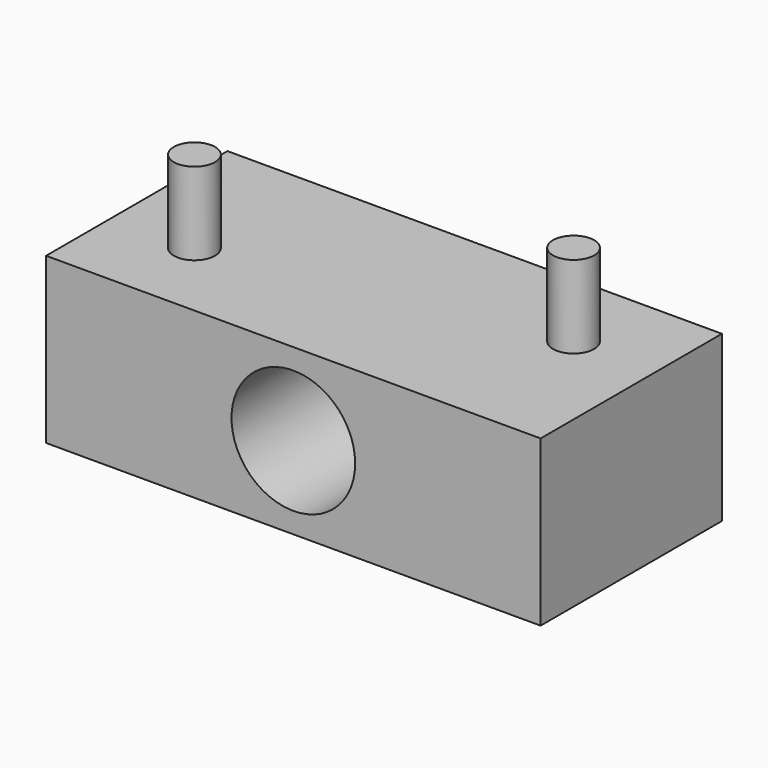
from build123d import *

# Parameters (mm, degrees)
F0_W     = 152.4
F0_H     = 69.85
F1_DEPTH = 50.8
F2_R     = 19.05
F3_DEPTH = 201.422
F4_R     = 6.35
F5_DEPTH = 25.4


with BuildPart() as f1:
    # F0 (on Top) → F1 (new body)
    with BuildSketch(Plane.XY):
        Rectangle(F0_W, F0_H)
    extrude(amount=F1_DEPTH)

    # F2 (on face) → F3 (cut)
    with BuildSketch(Plane.XZ.offset(34.925)):
        with Locations((0, 25.4)):
            Circle(F2_R)
    extrude(amount=-F3_DEPTH, mode=Mode.SUBTRACT)

    # F4 (on face) → F5 (join)
    with BuildSketch(Plane.XY.offset(50.8)):
        with Locations((50.8, 9.525)):
            Circle(F4_R)
        with Locations((-50.8, -9.525)):
            Circle(F4_R)
    extrude(amount=F5_DEPTH)


solid = f1.part
